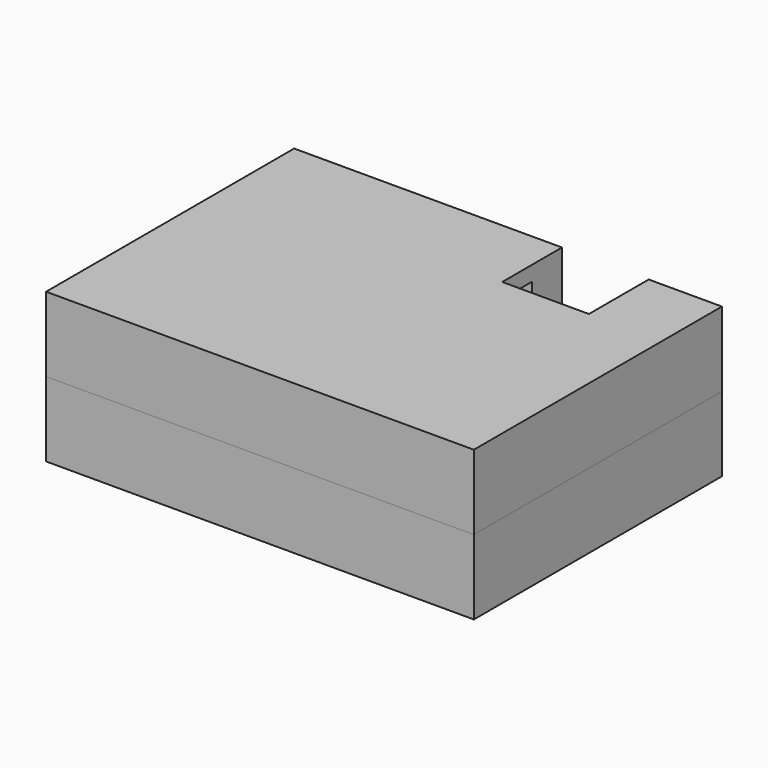
from build123d import *

# Parameters (mm, degrees)
F1_DEPTH = 12.7
F2_W     = 59.99988
F2_H     = 39.99992
F3_DEPTH = 10.16
F4_W     = 14.732
F4_H     = 12.7
F5_DEPTH = 12.7
F6_W     = 72.69988
F6_H     = 52.69992
F7_DEPTH = 12.7


with BuildPart() as f1:
    # F0 (on Top) → F1 (new body)
    with BuildSketch(Plane.XY):
        Polygon((36.34994, 26.34996), (29.99994, 26.34996), (-29.99994, 26.34996), (-36.34994, 26.34996), (-36.34994, -26.34996), (36.34994, -26.34996), align=None)
    extrude(amount=F1_DEPTH)

    # F2 (on face) → F3 (cut, through all)
    with BuildSketch(Plane(origin=(0, 0, 0), x_dir=(1, 0, 0), z_dir=(0, 0, -1))):
        Rectangle(F2_W, F2_H)
    extrude(amount=-F3_DEPTH, mode=Mode.SUBTRACT)

    # F4 (on face) → F5 (cut, through all)
    with BuildSketch(Plane.XY.offset(12.7)):
        with Locations((16.53794, 19.99996)):
            Rectangle(F4_W, F4_H)
    extrude(amount=-F5_DEPTH, mode=Mode.SUBTRACT)


with BuildPart() as f7:
    # F6 (on face) → F7 (new body)
    with BuildSketch(Plane(origin=(0, 0, 0), x_dir=(1, 0, 0), z_dir=(0, 0, -1))):
        Rectangle(F6_W, F6_H)
    extrude(amount=F7_DEPTH)


solid = Compound([f1.part, f7.part])
